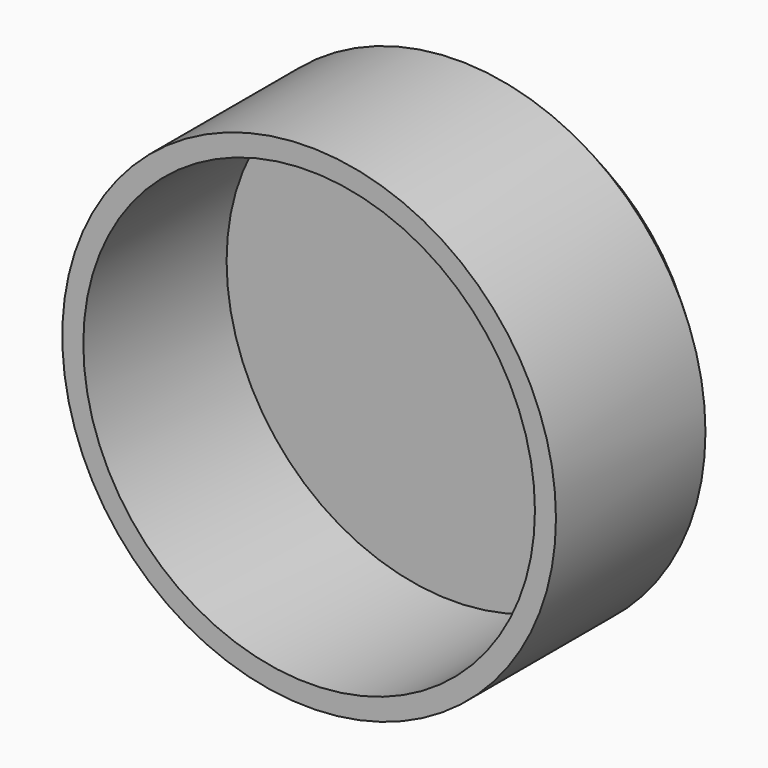
from build123d import *

# Parameters (mm, degrees)
F0_R     = 158.5
F0_R_2   = 145
F1_DEPTH = 125
F2_R     = 158.5
F3_DEPTH = 30
F4_SIZE  = 25
F5_DEPTH = 20


with BuildPart() as f1:
    # F0 (on Front) → F1 (new body)
    with BuildSketch(Plane.XZ):
        Circle(F0_R)
        Circle(F0_R_2, mode=Mode.SUBTRACT)
    extrude(amount=F1_DEPTH)

    # F2 (on face) → F3 (join)
    with BuildSketch(Plane(origin=(0, 0, 0), x_dir=(-1, 0, 0), z_dir=(0, 1, 0))):
        Circle(F2_R)
    extrude(amount=-F3_DEPTH)

    # F4
    f4_edges = [f1.edges().sort_by_distance(p)[0] for p in [
        (-158.5, 0, 0),
    ]]
    chamfer(f4_edges, length=F4_SIZE)

    # F5 (add): a face of the model
    f5_faces = [f1.faces().sort_by_distance(p)[0] for p in [
        (-154.0169430073, -125, 0),
    ]]
    extrude(f5_faces, amount=F5_DEPTH)


solid = f1.part
